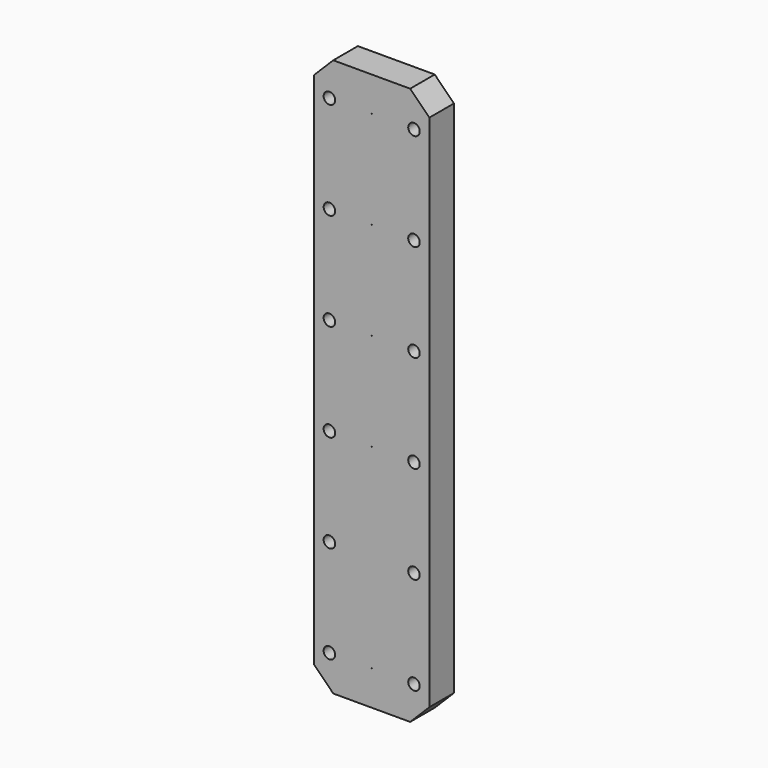
from build123d import *

# Parameters (mm, degrees)
F0_W           = 30
F0_H           = 145
F1_DEPTH       = 8
F2_D           = 3
F3_D           = 0.1
F3_DEPTH       = 23
F3_CBORE_D     = 10
F3_CBORE_DEPTH = 3
F3_TIP         = 0.030043031
F4_SIZE        = 5


with BuildPart() as f1:
    # F0 (on Front) → F1 (new body)
    with BuildSketch(Plane.XZ):
        with Locations((-5.6524093151, 12.860655725)):
            Rectangle(F0_W, F0_H)
    extrude(amount=F1_DEPTH)

    # F2 (through all)
    with Locations(Plane(origin=(0, 0, 0), x_dir=(1, 0, 0), z_dir=(0, 1, 0))):
        with Locations((5.3475906849, -76.360655725), (5.3475906849, -50.960655725), (5.3475906849, -25.560655725), (5.3475906849, -0.160655725), (5.3475906849, 25.239344275), (5.3475906849, 50.639344275), (-16.6524093151, 50.639344275), (-16.6524093151, 25.239344275), (-16.6524093151, -0.160655725), (-16.6524093151, -25.560655725), (-16.6524093151, -50.960655725), (-16.6524093151, -76.360655725)):
            Hole(F2_D / 2)

    # F3
    with Locations(Plane(origin=(0, 0, 0), x_dir=(1, 0, 0), z_dir=(0, 1, 0))):
        with Locations((-5.6524093151, -76.360655725), (-5.6524093151, -50.960655725), (-5.6524093151, -25.560655725), (-5.6524093151, -0.160655725), (-5.6524093151, 25.239344275), (-5.6524093151, 50.639344275)):
            CounterBoreHole(F3_D / 2, F3_CBORE_D / 2, F3_CBORE_DEPTH, depth=F3_DEPTH)
            with Locations((0, 0, -(F3_DEPTH + F3_TIP / 2))):  # 118° drill point
                Cone(0, F3_D / 2, F3_TIP, mode=Mode.SUBTRACT)

    # F4
    f4_edges = [f1.edges().sort_by_distance(p)[0] for p in [
        (9.347591, -4, -59.639344),
        (-20.652409, -4, -59.639344),
        (-20.652409, -4, 85.360656),
        (9.347591, -4, 85.360656),
    ]]
    chamfer(f4_edges, length=F4_SIZE)


solid = f1.part
